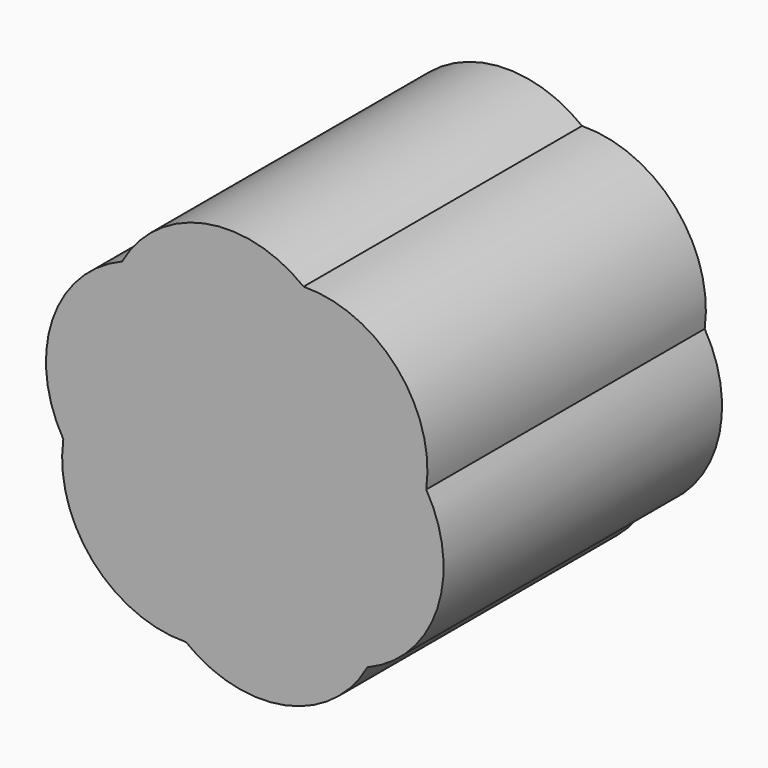
from build123d import *

# Parameters (mm, degrees)
F1_DEPTH = 6


with BuildPart() as f1:
    # F0 (on Front) → F1 (new body)
    with BuildSketch(Plane.XZ):
        with BuildLine():
            ThreePointArc((2.114303, -2.391803), (3.318667, -1.111957), (3.128514, 0.635138))
            ThreePointArc((3.128514, 0.635138), (2.622317, 2.318072), (1.014211, 3.026942))
            ThreePointArc((1.014211, 3.026942), (-0.696351, 3.430029), (-2.114303, 2.391803))
            ThreePointArc((-2.114303, 2.391803), (-3.318667, 1.111957), (-3.128514, -0.635138))
            ThreePointArc((-3.128514, -0.635138), (-2.622317, -2.318072), (-1.014211, -3.026942))
            ThreePointArc((-1.014211, -3.026942), (0.696351, -3.430029), (2.114303, -2.391803))
        make_face()
    extrude(amount=F1_DEPTH)


solid = f1.part
